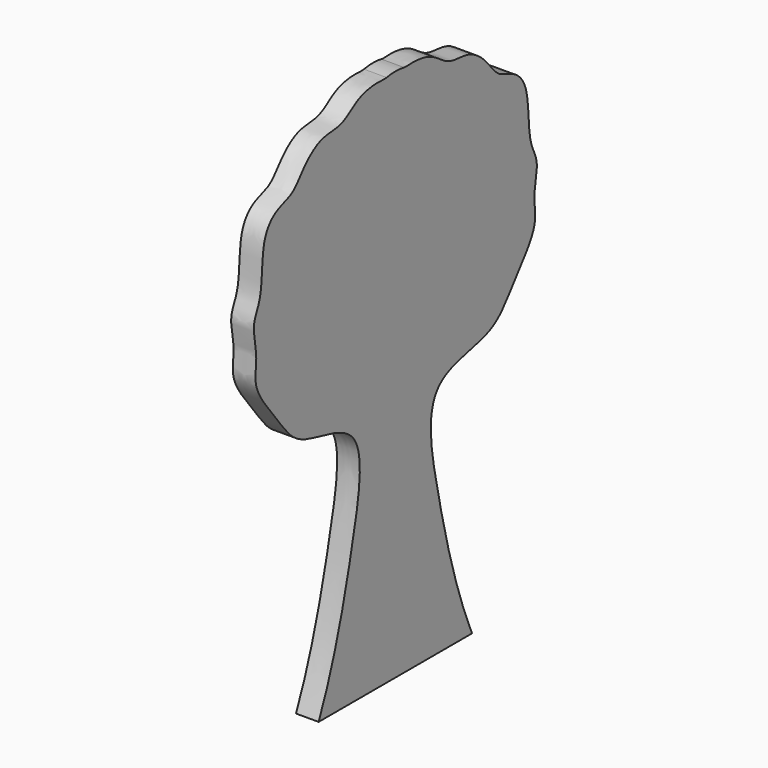
from build123d import *

# Parameters (mm, degrees)
F1_DEPTH = 5.08
F2_R     = 12.8532719159


with BuildPart() as f1:
    # F0 (on Right) → F1 (new body)
    with BuildSketch(Plane.YZ):
        with BuildLine():
            add(Edge.make_bspline(
                [(-56.3868350771, 209.1846928061), (-51.8268564056, 219.5603100587), (-47.0062290994, 238.9346337297), (-42.0843738315, 264.6203643523), (-61.087343567, 265.3647970334), (-65.8205767265, 270.6052797694), (-69.1840919723, 275.1652114785), (-75.0848681112, 282.4967945021), (-73.2123842871, 288.2263760196), (-75.4495318394, 295.1906984334), (-71.8628181972, 299.4597727365), (-72.6691563028, 310.975384626), (-68.2360297863, 315.3738648274), (-63.4862273214, 316.1526702041), (-60.6316662771, 320.64695863), (-55.6838088677, 324.6402614316), (-49.6200300411, 323.9792930946), (-45.3922929994, 328.3404371229), (-38.7287579093, 328.9548784091), (-36.4965110178, 328.3160104154), (-34.8852906449, 330.7472467422)],
                knots=[0, 0, 0, 0, 0.1128869656, 0.2016415181, 0.2758834055, 0.3262678148, 0.3734078377, 0.4311273465, 0.4779250255, 0.5278124403, 0.5724837934, 0.6371981321, 0.6835240034, 0.724375692, 0.7685675005, 0.8167769994, 0.8629199964, 0.9097811158, 0.9577952383, 1, 1, 1, 1], degree=3))
            Line((-56.3868350771, 209.1846928061), (-45.636062861, 209.1846928061))
            Line((-45.636062861, 209.1846928061), (-24.1345184288, 209.1846928061))
            Line((-24.1345184288, 209.1846928061), (-13.3837462126, 209.1846928061))
            add(Edge.make_bspline(
                [(-13.3837462126, 209.1846928061), (-17.9437248842, 219.5603100587), (-22.7643521904, 238.9346337297), (-27.6862074583, 264.6203643523), (-8.6832377227, 265.3647970334), (-3.9500045633, 270.6052797694), (-0.5864893174, 275.1652114785), (5.3142868214, 282.4967945021), (3.4418029973, 288.2263760196), (5.6789505496, 295.1906984334), (2.0922369074, 299.4597727365), (2.898575013, 310.975384626), (-1.5345515035, 315.3738648274), (-6.2843539684, 316.1526702041), (-9.1389150127, 320.64695863), (-14.0867724221, 324.6402614316), (-20.1505512487, 323.9792930946), (-24.3782882904, 328.3404371229), (-31.0418233805, 328.9548784091), (-33.274070272, 328.3160104154), (-34.8852906449, 330.7472467422)],
                knots=[0, 0, 0, 0, 0.1128869656, 0.2016415181, 0.2758834055, 0.3262678148, 0.3734078377, 0.4311273465, 0.4779250255, 0.5278124403, 0.5724837934, 0.6371981321, 0.6835240034, 0.724375692, 0.7685675005, 0.8167769994, 0.8629199964, 0.9097811158, 0.9577952383, 1, 1, 1, 1], degree=3))
        make_face()
    extrude(amount=F1_DEPTH)

    # F2
    f2_edges = [f1.edges().sort_by_distance(p)[0] for p in [
        (2.54, -34.885291, 330.747247),
    ]]
    fillet(f2_edges, radius=F2_R)


solid = f1.part
